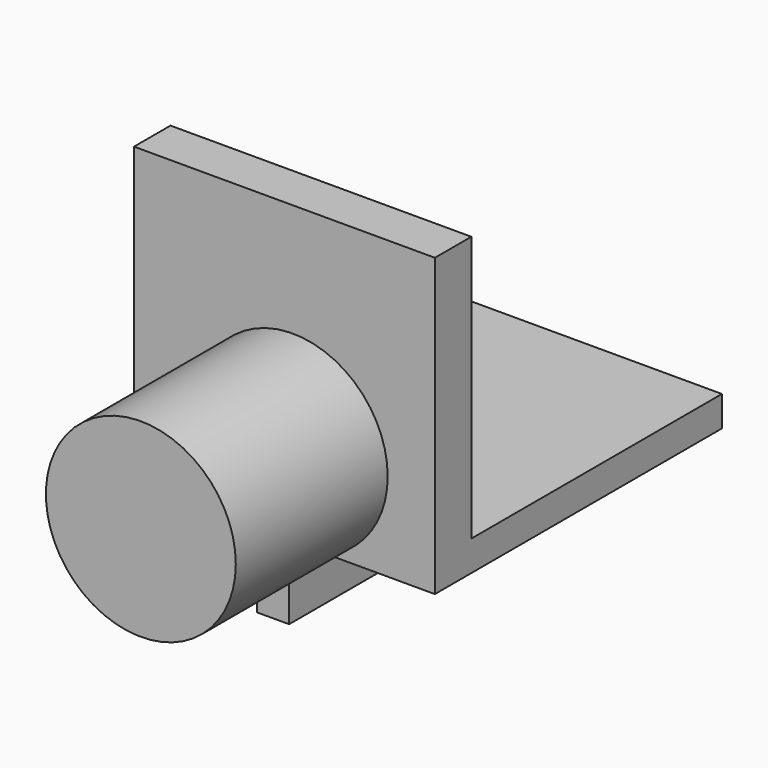
from build123d import *

# Parameters (mm, degrees)
F0_R     = 1.5875
F1_DEPTH = 3.175
F2_W     = 5.0304289907
F2_H     = 4.9511287361
F3_DEPTH = 0.762
F4_W     = 5.1232710698
F4_H     = 5.2371935268
F5_DEPTH = 0.508
F6_W     = 0.5395373363
F6_H     = 6.858
F7_DEPTH = 0.889


with BuildPart() as f1:
    # F0 (on Front) → F1 (new body)
    with BuildSketch(Plane.XZ):
        with Locations((-24.2014154792, 23.8942243159)):
            Circle(F0_R)
    extrude(amount=F1_DEPTH)

    # F2 (on Front) → F3 (join)
    with BuildSketch(Plane.XZ):
        with Locations((-24.3402747437, 24.8939255252)):
            Rectangle(F2_W, F2_H)
    extrude(amount=-F3_DEPTH)

    # F4 (on face) → F5 (join)
    with BuildSketch(Plane(origin=(0, 0, 22.4183611572), x_dir=(1, 0, 0), z_dir=(0, 0, -1))):
        with Locations((-24.3866957833, -3.3805967634)):
            Rectangle(F4_W, F4_H)
    extrude(amount=-F5_DEPTH)

    # F6 (on face) → F7 (join)
    with BuildSketch(Plane(origin=(0, 0, 22.4183611572), x_dir=(1, 0, 0), z_dir=(0, 0, -1))):
        with Locations((-24.1154753933, -2.9085015029)):
            Rectangle(F6_W, F6_H)
    extrude(amount=F7_DEPTH)


solid = f1.part
